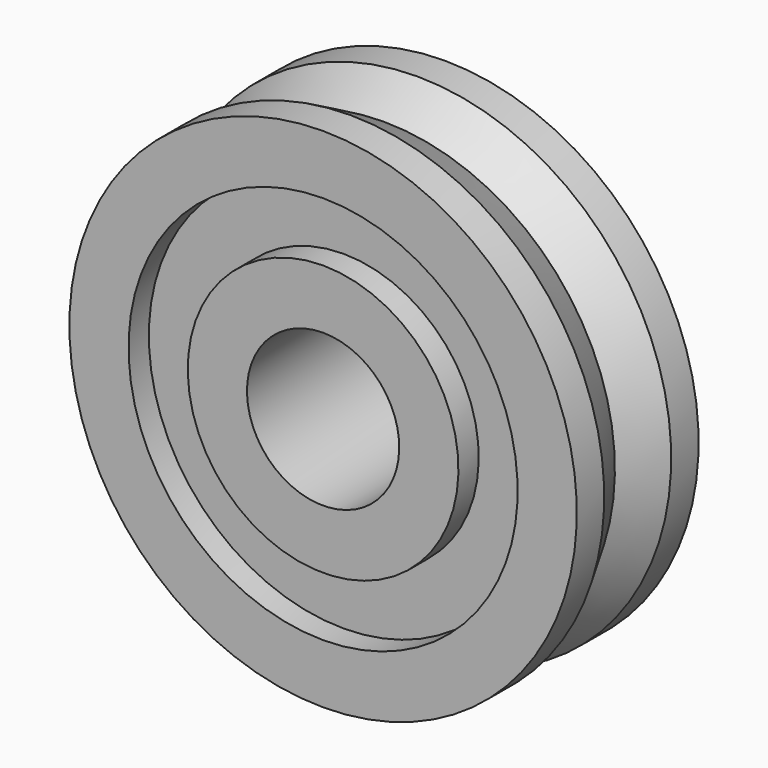
from build123d import *


with BuildPart() as f1:
    # F0 (on Right) → F1 (revolve)
    with BuildSketch(Plane.YZ):
        Polygon((0, 2.667), (0, 1.5), (3, 1.5), (3, 2.667), (2.5, 2.667), (2.5, 3.834), (3, 3.834), (3, 5), (2.325, 5), (1.5, 4.55), (0.675, 5), (0, 5), (0, 3.834), (0.5, 3.834), (0.5, 2.667), align=None)
    revolve(axis=Axis((0, 1.5, 0), (0, 1, 0)))


solid = f1.part
